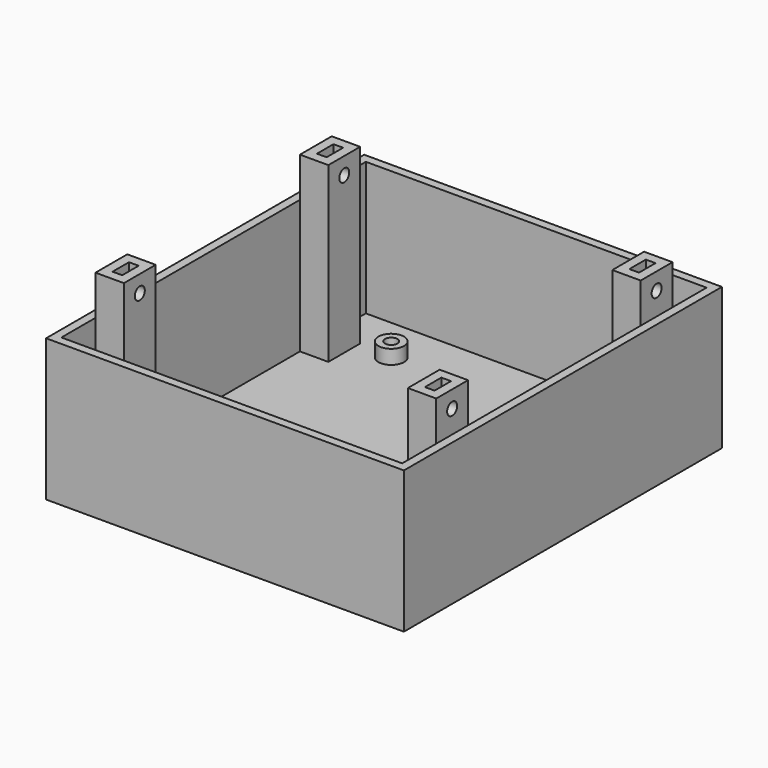
from build123d import *

# Parameters (mm, degrees)
SKETCH_W        = 126
SKETCH_H        = 140
PAD_DEPTH       = 50
SKETCH002_W     = 120
SKETCH002_H     = 134
POCKET_DEPTH    = 47
SKETCH001_W     = 10
SKETCH001_H     = 14
SKETCH001_W_2   = 3.4
SKETCH001_H_2   = 7.25
PAD001_DEPTH    = 61
SKETCH003_R     = 2.2
POCKET001_DEPTH = 123.001
SKETCH004_R     = 4.5
PAD002_DEPTH    = 5
SKETCH005_R     = 2.2
POCKET002_DEPTH = 8.001


with BuildPart() as part:
    # Sketch → Pad (new body)
    with BuildSketch(Plane.XY):
        Rectangle(SKETCH_W, SKETCH_H)
    extrude(amount=PAD_DEPTH)

    # Sketch002 → Pocket (cut)
    with BuildSketch(Plane.XY.offset(50)):
        Rectangle(SKETCH002_W, SKETCH002_H)
    extrude(amount=-POCKET_DEPTH, mode=Mode.SUBTRACT)

    # Sketch001 → Pad001 (new body)
    with BuildSketch(Plane.XY.offset(3)):
        with Locations((-55, 45)):
            Rectangle(SKETCH001_W, SKETCH001_H)
        with Locations((-55, 45)):
            Rectangle(SKETCH001_W_2, SKETCH001_H_2, mode=Mode.SUBTRACT)
        with Locations((55, 45)):
            Rectangle(SKETCH001_W, SKETCH001_H)
        with Locations((55, 45)):
            Rectangle(SKETCH001_W_2, SKETCH001_H_2, mode=Mode.SUBTRACT)
        with Locations((-55, -45)):
            Rectangle(SKETCH001_W, SKETCH001_H)
        with Locations((-55, -45)):
            Rectangle(SKETCH001_W_2, SKETCH001_H_2, mode=Mode.SUBTRACT)
        with Locations((55, -45)):
            Rectangle(SKETCH001_W, SKETCH001_H)
        with Locations((55, -45)):
            Rectangle(SKETCH001_W_2, SKETCH001_H_2, mode=Mode.SUBTRACT)
    extrude(amount=PAD001_DEPTH)

    # Sketch003 → Pocket001 (cut, through all)
    with BuildSketch(Plane.YZ.offset(60)):
        with Locations((-45, 58)):
            Circle(SKETCH003_R)
        with Locations((45, 58)):
            Circle(SKETCH003_R)
    extrude(amount=-POCKET001_DEPTH, mode=Mode.SUBTRACT)

    # Sketch004 → Pad002 (new body)
    with BuildSketch(Plane.XY.offset(3)):
        with Locations((-38.1655, 50.887)):
            Circle(SKETCH004_R)
        with Locations((38.1655, 50.887)):
            Circle(SKETCH004_R)
        with Locations((-38.1655, -50.887)):
            Circle(SKETCH004_R)
        with Locations((38.1655, -50.887)):
            Circle(SKETCH004_R)
    extrude(amount=PAD002_DEPTH)

    # Sketch005 → Pocket002 (cut, through all)
    with BuildSketch(Plane.XY.offset(8)):
        with Locations((-38.1655, 50.887)):
            Circle(SKETCH005_R)
        with Locations((38.1655, 50.887)):
            Circle(SKETCH005_R)
        with Locations((-38.1655, -50.887)):
            Circle(SKETCH005_R)
        with Locations((38.1655, -50.887)):
            Circle(SKETCH005_R)
    extrude(amount=-POCKET002_DEPTH, mode=Mode.SUBTRACT)


solid = part.part
